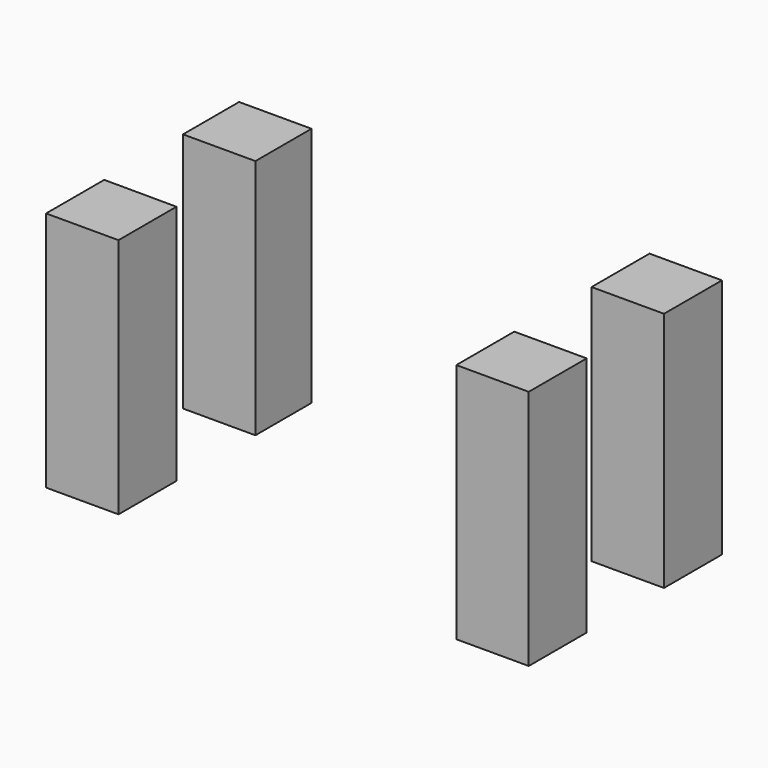
from build123d import *

# Parameters (mm, degrees)
F0_W     = 7.62
F0_H     = 7.375676
F0_H_2   = 7.62
F1_DEPTH = 25.4


with BuildPart() as f1:
    # F0 (on Top) → F1 (new body)
    with BuildSketch(Plane.XY):
        Polygon((-25.395229, -12.689492), (-17.775229, -12.689492), (-17.775229, -5.069492), (-25.395229, -5.0381), align=None)
        with Locations((-21.59, 9.012245)):
            Rectangle(F0_W, F0_H)
        with Locations((21.594625, 8.890289)):
            Rectangle(F0_W, F0_H_2)
        with Locations((21.590635, -8.892313)):
            Rectangle(F0_W, F0_H_2)
    extrude(amount=F1_DEPTH)


solid = f1.part
